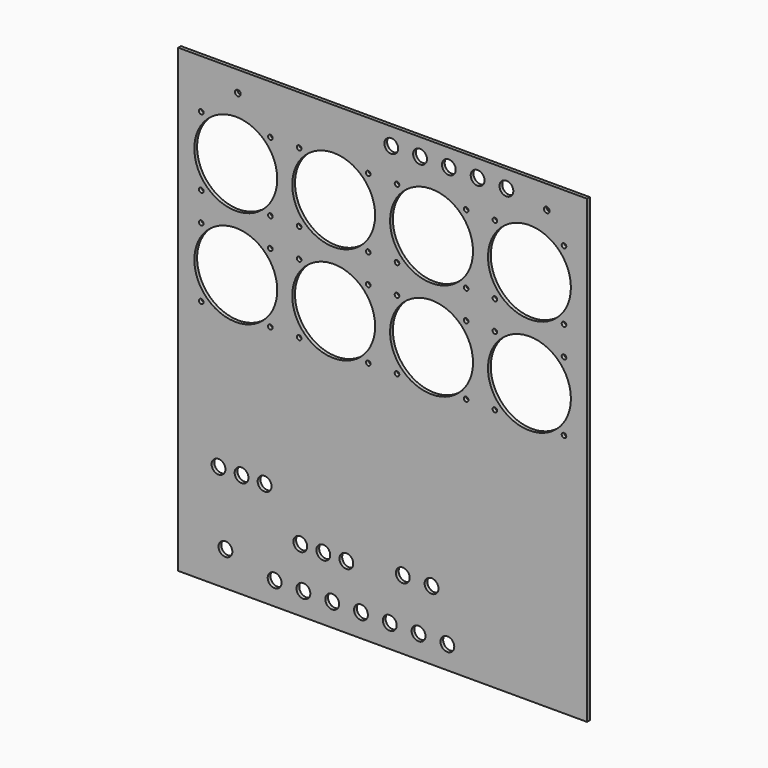
from build123d import *

# Parameters (mm, degrees)
F0_W     = 355
F0_H     = 400
F0_R     = 36
F1_DEPTH = 3
F2_R     = 2
F3_DEPTH = 3
F4_R     = 6
F4_R_2   = 2.5
F5_DEPTH = 3


with BuildPart() as f1:
    # F0 (on Front) → F1 (new body)
    with BuildSketch(Plane.XZ):
        with Locations((177.5, 200)):
            Rectangle(F0_W, F0_H)
        with Locations((50, 242.5)):
            Circle(F0_R, mode=Mode.SUBTRACT)
        with Locations((135, 242.5)):
            Circle(F0_R, mode=Mode.SUBTRACT)
        with Locations((50, 327.5)):
            Circle(F0_R, mode=Mode.SUBTRACT)
        with Locations((135, 327.5)):
            Circle(F0_R, mode=Mode.SUBTRACT)
        with Locations((220, 242.5)):
            Circle(F0_R, mode=Mode.SUBTRACT)
        with Locations((305, 242.5)):
            Circle(F0_R, mode=Mode.SUBTRACT)
        with Locations((220, 327.5)):
            Circle(F0_R, mode=Mode.SUBTRACT)
        with Locations((305, 327.5)):
            Circle(F0_R, mode=Mode.SUBTRACT)
        with Locations((177.5, 200)):
            Rectangle(F0_W, F0_H)
        with Locations((50, 242.5)):
            Circle(F0_R, mode=Mode.SUBTRACT)
        with Locations((135, 242.5)):
            Circle(F0_R, mode=Mode.SUBTRACT)
        with Locations((50, 327.5)):
            Circle(F0_R, mode=Mode.SUBTRACT)
        with Locations((135, 327.5)):
            Circle(F0_R, mode=Mode.SUBTRACT)
        with Locations((220, 242.5)):
            Circle(F0_R, mode=Mode.SUBTRACT)
        with Locations((305, 242.5)):
            Circle(F0_R, mode=Mode.SUBTRACT)
        with Locations((220, 327.5)):
            Circle(F0_R, mode=Mode.SUBTRACT)
        with Locations((305, 327.5)):
            Circle(F0_R, mode=Mode.SUBTRACT)
    extrude(amount=-F1_DEPTH)

    # F2 (on face) → F3 (cut)
    with BuildSketch(Plane.XZ):
        with Locations((20, 357.5)):
            Circle(F2_R)
        with Locations((80, 357.5)):
            Circle(F2_R)
        with Locations((80, 297.5)):
            Circle(F2_R)
        with Locations((20, 297.5)):
            Circle(F2_R)
        with Locations((80, 272.5)):
            Circle(F2_R)
        with Locations((80, 212.5)):
            Circle(F2_R)
        with Locations((20, 212.5)):
            Circle(F2_R)
        with Locations((20, 272.5)):
            Circle(F2_R)
        with Locations((165, 357.5)):
            Circle(F2_R)
        with Locations((165, 297.5)):
            Circle(F2_R)
        with Locations((105, 297.5)):
            Circle(F2_R)
        with Locations((105, 357.5)):
            Circle(F2_R)
        with Locations((165, 272.5)):
            Circle(F2_R)
        with Locations((165, 212.5)):
            Circle(F2_R)
        with Locations((105, 212.5)):
            Circle(F2_R)
        with Locations((105, 272.5)):
            Circle(F2_R)
        with Locations((250, 357.5)):
            Circle(F2_R)
        with Locations((250, 297.5)):
            Circle(F2_R)
        with Locations((190, 297.5)):
            Circle(F2_R)
        with Locations((190, 357.5)):
            Circle(F2_R)
        with Locations((250, 272.5)):
            Circle(F2_R)
        with Locations((250, 212.5)):
            Circle(F2_R)
        with Locations((190, 212.5)):
            Circle(F2_R)
        with Locations((190, 272.5)):
            Circle(F2_R)
        with Locations((335, 357.5)):
            Circle(F2_R)
        with Locations((335, 297.5)):
            Circle(F2_R)
        with Locations((275, 297.5)):
            Circle(F2_R)
        with Locations((275, 357.5)):
            Circle(F2_R)
        with Locations((335, 272.5)):
            Circle(F2_R)
        with Locations((335, 212.5)):
            Circle(F2_R)
        with Locations((275, 212.5)):
            Circle(F2_R)
        with Locations((275, 272.5)):
            Circle(F2_R)
    extrude(amount=-F3_DEPTH, mode=Mode.SUBTRACT)

    # F4 (on face) → F5 (cut)
    with BuildSketch(Plane.XZ):
        with Locations((35, 91)):
            Circle(F4_R)
        with Locations((55, 91)):
            Circle(F4_R)
        with Locations((75, 91)):
            Circle(F4_R)
        with Locations((106, 55)):
            Circle(F4_R)
        with Locations((126, 55)):
            Circle(F4_R)
        with Locations((146, 55)):
            Circle(F4_R)
        with Locations((41, 30)):
            Circle(F4_R)
        with Locations((83.710723, 20)):
            Circle(F4_R)
        with Locations((108.710723, 20)):
            Circle(F4_R)
        with Locations((133.710723, 20)):
            Circle(F4_R)
        with Locations((158.710723, 20)):
            Circle(F4_R)
        with Locations((183.710723, 20)):
            Circle(F4_R)
        with Locations((208.710723, 20)):
            Circle(F4_R)
        with Locations((233.710723, 20)):
            Circle(F4_R)
        with Locations((195, 60)):
            Circle(F4_R)
        with Locations((220, 60)):
            Circle(F4_R)
        with Locations((185, 385)):
            Circle(F4_R)
        with Locations((210, 385)):
            Circle(F4_R)
        with Locations((235, 385)):
            Circle(F4_R)
        with Locations((260, 385)):
            Circle(F4_R)
        with Locations((285, 385)):
            Circle(F4_R)
        with Locations((320, 380)):
            Circle(F4_R_2)
        with Locations((51.772643, 382.141024)):
            Circle(F4_R_2)
    extrude(amount=-F5_DEPTH, mode=Mode.SUBTRACT)


solid = f1.part
